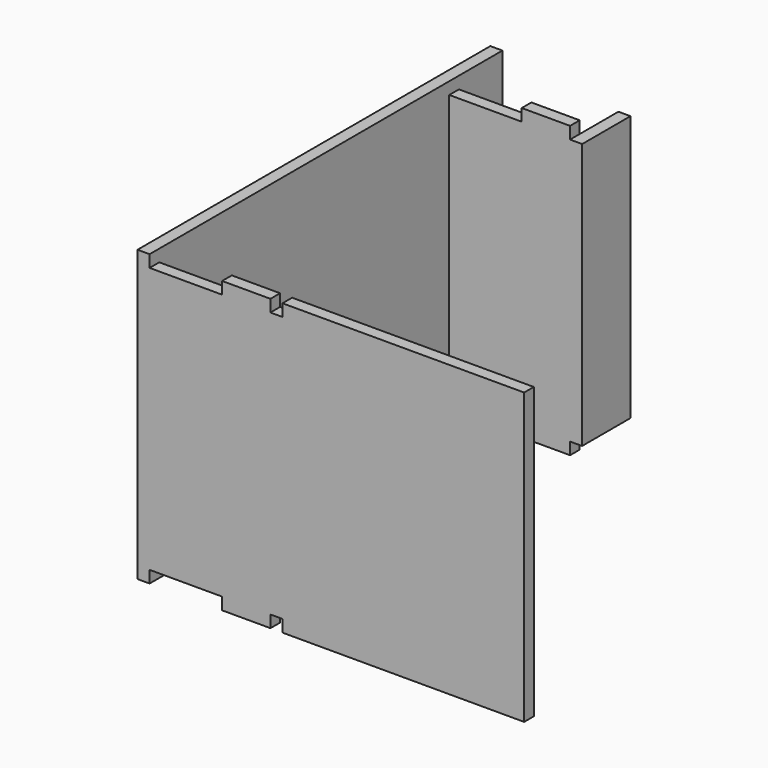
from build123d import *

# Parameters (mm, degrees)
F1_DEPTH = 609.6
F2_W     = 25.4
F2_H     = 101.6
F2_H_2   = 114.3
F3_DEPTH = 609.6
F4_W     = 152.4
F4_H     = 25.4
F4_W_2   = 25.4
F5_DEPTH = 2032


with BuildPart() as f1:
    # F0 (on Top) → F1 (new body)
    with BuildSketch(Plane.XY):
        Polygon((304.8, 812.8), (0, 812.8), (0, 0), (812.8, 0), (812.8, 25.4), (25.4, 25.4), (25.4, 787.4), (304.8, 787.4), align=None)
    extrude(amount=-F1_DEPTH)

    # F2 (on face) → F3 (join)
    with BuildSketch(Plane.XY):
        with Locations((292.1, 863.6)):
            Rectangle(F2_W, F2_H)
        with Locations((12.7, 869.95)):
            Rectangle(F2_W, F2_H_2)
    extrude(amount=-F3_DEPTH)

    # F4 (on Front) → F5 (cut)
    with BuildSketch(Plane.XZ):
        with Locations((101.6, -12.7)):
            Rectangle(F4_W, F4_H)
        with Locations((292.1, -12.7)):
            Rectangle(F4_W_2, F4_H)
        with Locations((101.6, -596.9)):
            Rectangle(F4_W, F4_H)
        with Locations((292.1, -596.9)):
            Rectangle(F4_W_2, F4_H)
    extrude(amount=-F5_DEPTH, mode=Mode.SUBTRACT)


solid = f1.part
